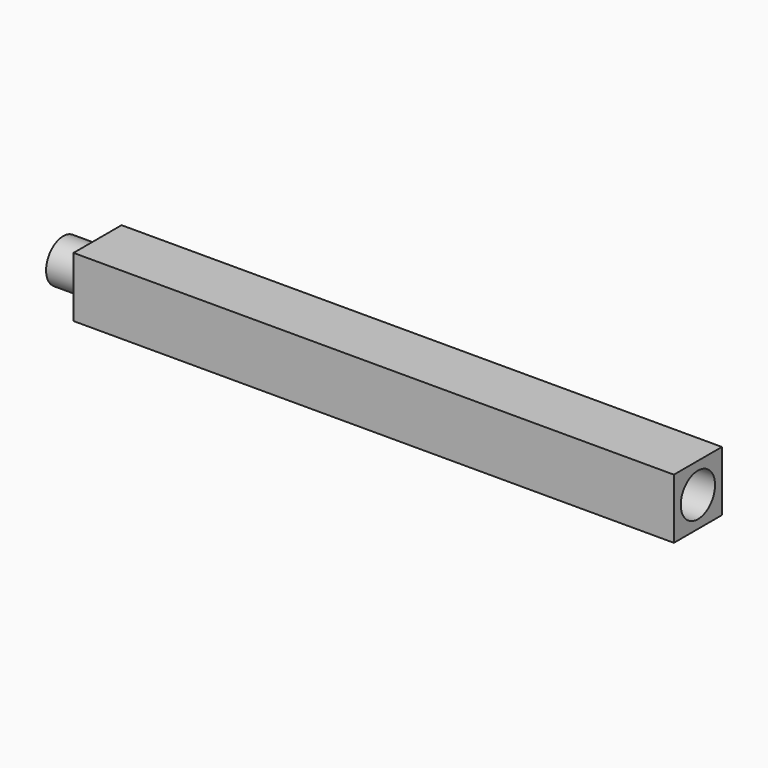
from build123d import *

# Parameters (mm, degrees)
F0_W     = 70
F0_H     = 7
F1_DEPTH = 7
F2_R     = 2.5
F3_DEPTH = 5
F4_R     = 2.5
F5_DEPTH = 4


with BuildPart() as f1:
    # F0 (on Top) → F1 (new body)
    with BuildSketch(Plane.XY):
        with Locations((35, 3.5)):
            Rectangle(F0_W, F0_H)
    extrude(amount=F1_DEPTH)

    # F2 (on face) → F3 (cut)
    with BuildSketch(Plane.YZ.offset(70)):
        with Locations((3.5, 3.5)):
            Circle(F2_R)
    extrude(amount=-F3_DEPTH, mode=Mode.SUBTRACT)

    # F4 (on face) → F5 (join)
    with BuildSketch(Plane(origin=(0, 0, 0), x_dir=(0, -1, 0), z_dir=(-1, 0, 0))):
        with Locations((-3.5, 3.5)):
            Circle(F4_R)
    extrude(amount=F5_DEPTH)


solid = f1.part
